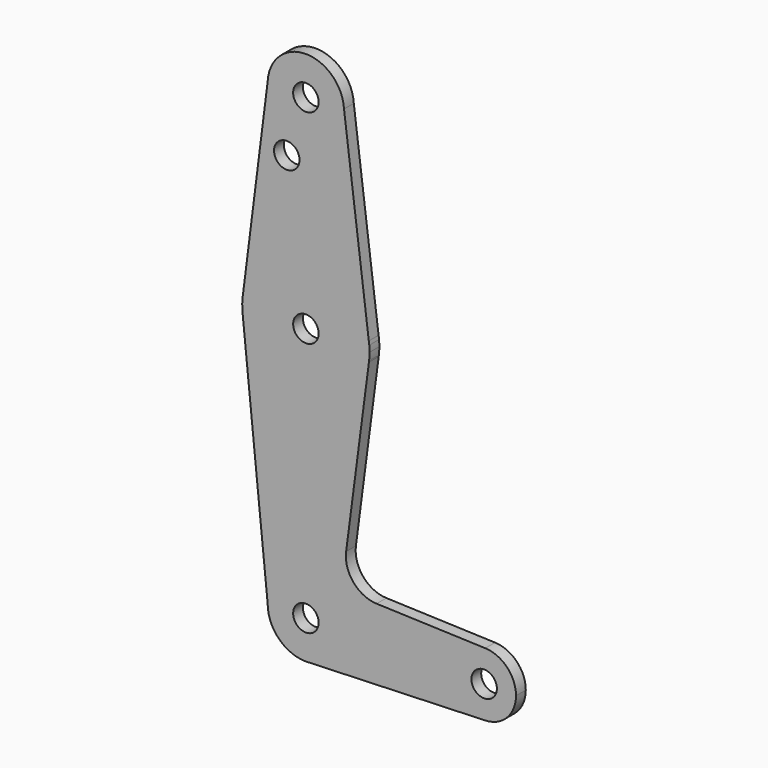
from build123d import *

# Parameters (mm, degrees)
F0_R     = 3.175
F1_DEPTH = 3.048


with BuildPart() as f1:
    # F0 (on Front) → F1 (new body)
    with BuildSketch(Plane.XZ):
        with BuildLine():
            ThreePointArc((-9.509983, 114.834645), (-0.267428, 104.778755), (9.525, 114.3))
            ThreePointArc((9.525, 114.3), (9.521245, 114.567428), (9.509983, 114.834645))
            ThreePointArc((9.509983, 114.834645), (0, 123.825), (-9.509983, 114.834645))
        make_face()
        with Locations((0, 114.3)):
            Circle(F0_R, mode=Mode.SUBTRACT)
        with BuildLine():
            ThreePointArc((9.509983, 114.834645), (9.521245, 114.567428), (9.525, 114.3))
            ThreePointArc((9.525, 114.3), (-0.267428, 104.778755), (-9.509983, 114.834645))
            Line((-9.509983, 114.834645), (-15.686252, 65.940722))
            ThreePointArc((-15.686252, 65.940722), (0, 79.375), (15.686252, 65.940722))
            Line((15.686252, 65.940722), (9.509983, 114.834645))
        make_face()
        with Locations((-4.7625, 100.0252)):
            Circle(F0_R, mode=Mode.SUBTRACT)
        with BuildLine():
            Line((15.800452, 65.036671), (15.686252, 65.940722))
            ThreePointArc((15.686252, 65.940722), (0, 79.375), (-15.686252, 65.940722))
            Line((-15.686252, 65.940722), (-15.800452, 65.036671))
            ThreePointArc((-15.800452, 65.036671), (-15.873967, 63.318899), (-15.761281, 61.603252))
            ThreePointArc((-15.761281, 61.603252), (-0.165233, 47.62586), (15.718384, 61.275583))
            Line((15.718384, 61.275583), (15.761281, 61.603252))
            ThreePointArc((15.761281, 61.603252), (15.846545, 62.549923), (15.875, 63.5))
            ThreePointArc((15.875, 63.5), (15.856352, 64.269239), (15.800452, 65.036671))
        make_face()
        with Locations((0, 63.5)):
            Circle(F0_R, mode=Mode.SUBTRACT)
        with BuildLine():
            ThreePointArc((15.800452, 65.036671), (15.74984, 65.489516), (15.686252, 65.940722))
            Line((15.686252, 65.940722), (15.800452, 65.036671))
        make_face()
        with BuildLine():
            Line((-15.800452, 65.036671), (-15.686252, 65.940722))
            ThreePointArc((-15.686252, 65.940722), (-15.74984, 65.489516), (-15.800452, 65.036671))
        make_face()
        with BuildLine():
            ThreePointArc((15.718384, 61.275583), (-0.165233, 47.62586), (-15.761281, 61.603252))
            Line((-15.761281, 61.603252), (-9.525, 0))
            ThreePointArc((-9.525, 0), (0, 9.525), (9.525, 0))
            ThreePointArc((9.525, 0), (6.970557, -6.491299), (0.677344, -9.500886))
            Line((0.677344, -9.500886), (44.732405, -7.932475))
            ThreePointArc((44.732405, -7.932475), (36.5125, 0), (44.732405, 7.932475))
            Line((44.732405, 7.932475), (17.636574, 8.897118))
            ThreePointArc((17.636574, 8.897118), (11.851697, 11.705332), (10.036496, 17.87428))
            Line((10.036496, 17.87428), (15.718384, 61.275583))
        make_face()
        with BuildLine():
            ThreePointArc((15.718384, 61.275583), (15.740685, 61.439306), (15.761281, 61.603252))
            Line((15.761281, 61.603252), (15.718384, 61.275583))
        make_face()
        with BuildLine():
            ThreePointArc((9.525, 0), (0, 9.525), (-9.525, 0))
            ThreePointArc((-9.525, 0), (-6.735192, -6.735192), (0, -9.525))
            Line((0, -9.525), (0.677344, -9.500886))
            ThreePointArc((0.677344, -9.500886), (6.970557, -6.491299), (9.525, 0))
        make_face()
        Circle(F0_R, mode=Mode.SUBTRACT)
        with BuildLine():
            Line((0.677344, -9.500886), (0, -9.525))
            ThreePointArc((0, -9.525), (0.338886, -9.51897), (0.677344, -9.500886))
        make_face()
        with BuildLine():
            ThreePointArc((52.3875, 0), (50.161633, 5.51191), (44.732405, 7.932475))
            ThreePointArc((44.732405, 7.932475), (36.5125, 0), (44.732405, -7.932475))
            ThreePointArc((44.732405, -7.932475), (50.161633, -5.51191), (52.3875, 0))
        make_face()
        with Locations((44.45, 0)):
            Circle(F0_R, mode=Mode.SUBTRACT)
    extrude(amount=F1_DEPTH)


solid = f1.part
